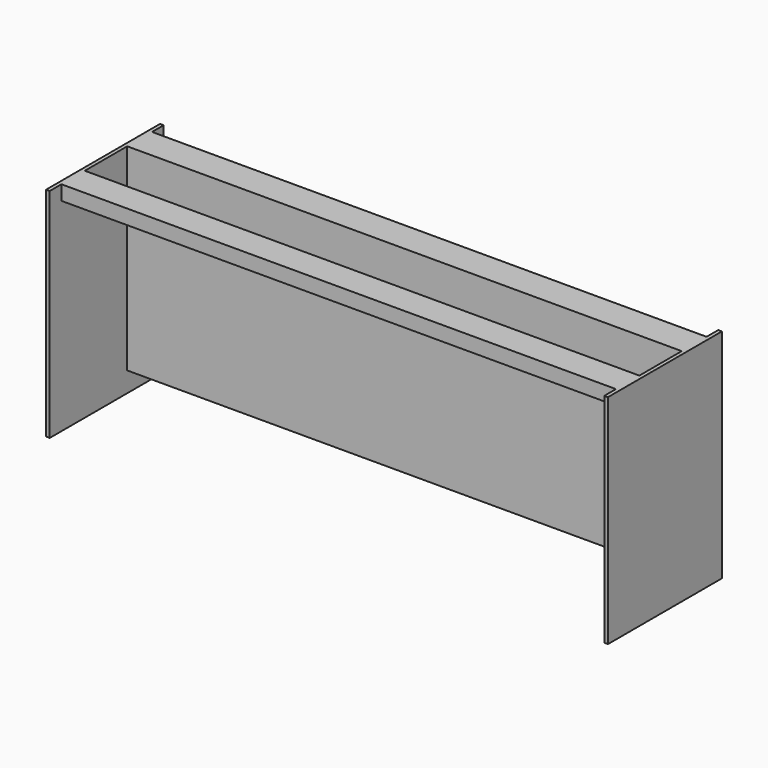
from build123d import *

# Parameters (mm, degrees)
F0_W     = 12.7
F0_H     = 69.85
F0_H_2   = 50.8
F0_H_3   = 584.2
F1_DEPTH = 495.3
F0_W_2   = 1927.225
F2_DEPTH = 152.4
F3_DEPTH = 158.75
F4_DEPTH = 495.3
F5_DEPTH = 50.8
F6_W     = 101.6
F6_H     = 50.8
F7_DEPTH = 1952.625
F8_DEPTH = 152.4


with BuildPart() as f1:
    # F0 (on Front) → F1 (new body)
    with BuildSketch(Plane.XZ):
        with Locations((-969.9625, -342.9)):
            Rectangle(F0_W, F0_H)
        with Locations((-969.9625, -282.575)):
            Rectangle(F0_W, F0_H_2)
        with Locations((-969.9625, 34.925)):
            Rectangle(F0_W, F0_H_3)
        with Locations((-969.9625, 352.425)):
            Rectangle(F0_W, F0_H_2)
    extrude(amount=F1_DEPTH)

    # F0 (on Front) → F2 (join)
    with BuildSketch(Plane.XZ):
        with Locations((0, 352.425)):
            Rectangle(F0_W_2, F0_H_2)
        with Locations((0, -282.575)):
            Rectangle(F0_W_2, F0_H_2)
    extrude(amount=F2_DEPTH)

    # F0 (on Front) → F3 (join)
    with BuildSketch(Plane.XZ):
        with Locations((0, 34.925)):
            Rectangle(F0_W_2, F0_H_3)
        with Locations((0, 352.425)):
            Rectangle(F0_W_2, F0_H_2)
        with Locations((0, -282.575)):
            Rectangle(F0_W_2, F0_H_2)
    extrude(amount=F3_DEPTH)

    # F0 (on Front) → F4 (join)
    with BuildSketch(Plane.XZ):
        with Locations((969.9625, 34.925)):
            Rectangle(F0_W, F0_H_3)
        with Locations((969.9625, 352.425)):
            Rectangle(F0_W, F0_H_2)
        with Locations((969.9625, -282.575)):
            Rectangle(F0_W, F0_H_2)
        with Locations((969.9625, -342.9)):
            Rectangle(F0_W, F0_H)
    extrude(amount=F4_DEPTH)

    # F0 (on Front) → F5 (cut)
    with BuildSketch(Plane.XZ):
        with Locations((0, 352.425)):
            Rectangle(F0_W_2, F0_H_2)
        with Locations((0, -282.575)):
            Rectangle(F0_W_2, F0_H_2)
    extrude(amount=F5_DEPTH, mode=Mode.SUBTRACT)

    # F6 (on face) → F7 (join, through all)
    with BuildSketch(Plane(origin=(-976.3125, 0, 0), x_dir=(0, -1, 0), z_dir=(-1, 0, 0))):
        with Locations((393.7, 352.425)):
            Rectangle(F6_W, F6_H)
    extrude(amount=-F7_DEPTH)

    # F0 (on Front) → F8 (cut)
    with BuildSketch(Plane.XZ):
        with Locations((0, 34.925)):
            Rectangle(F0_W_2, F0_H_3)
    extrude(amount=F8_DEPTH, mode=Mode.SUBTRACT)


solid = f1.part
